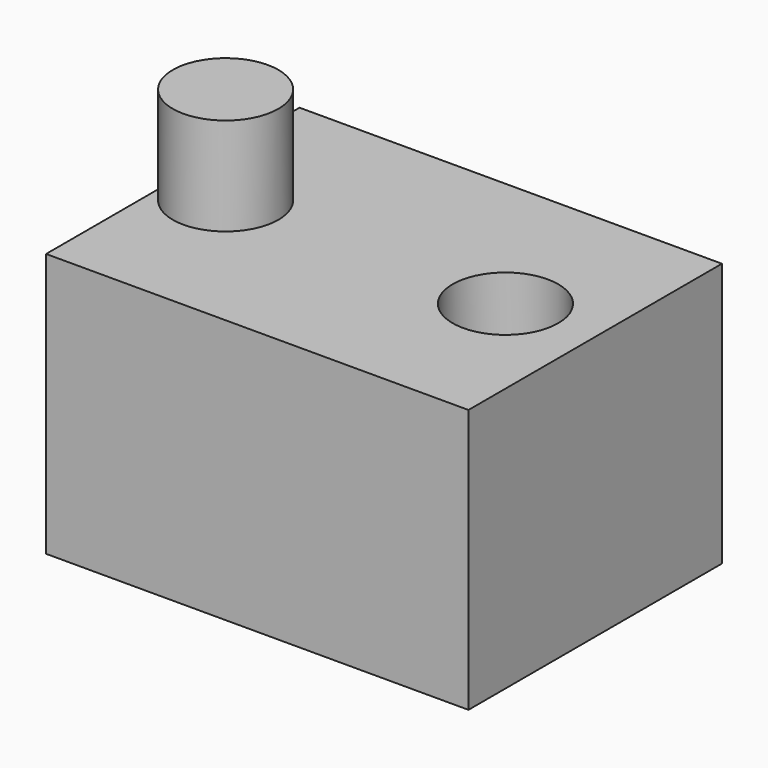
from build123d import *

# Parameters (mm, degrees)
F0_W     = 80
F0_H     = 60
F1_DEPTH = 50
F2_R     = 10
F3_DEPTH = 18.5
F4_R     = 10
F5_DEPTH = 20


with BuildPart() as f1:
    # F0 (on Top) → F1 (new body)
    with BuildSketch(Plane.XY):
        Rectangle(F0_W, F0_H)
        Rectangle(F0_W, F0_H)
    extrude(amount=F1_DEPTH)

    # F2 (on face) → F3 (join)
    with BuildSketch(Plane.XY.offset(50)):
        with Locations((-30, 0)):
            Circle(F2_R)
    extrude(amount=F3_DEPTH)

    # F4 (on face) → F5 (cut)
    with BuildSketch(Plane.XY.offset(50)):
        with Locations((23, 0)):
            Circle(F4_R)
    extrude(amount=-F5_DEPTH, mode=Mode.SUBTRACT)


solid = f1.part
